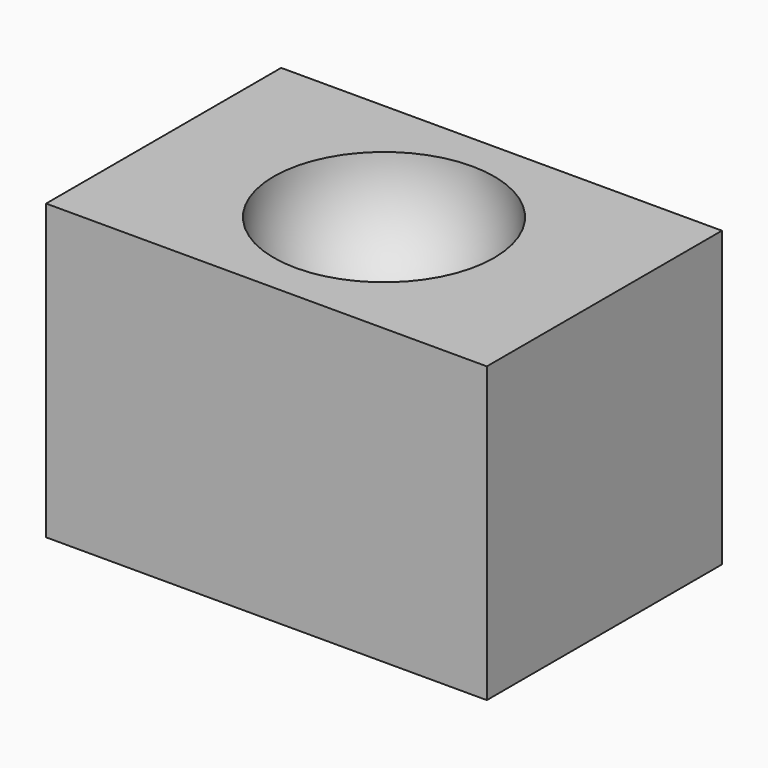
from build123d import *

# Parameters (mm, degrees)
F0_W     = 38.1
F0_H     = 25.4
F1_DEPTH = 25.4


with BuildPart() as f1:
    # F0 (on Top) → F1 (new body)
    with BuildSketch(Plane.XY):
        Rectangle(F0_W, F0_H)
    extrude(amount=F1_DEPTH)

    # F2 (on face) → F3 (revolve, cut)
    with BuildSketch(Plane.XY.offset(25.4)):
        with BuildLine():
            ThreePointArc((0, -9.525), (9.525, 0), (0, 9.525))
            Line((0, 9.525), (0, -9.525))
        make_face()
    revolve(axis=Axis((0, 0, 25.4), (0, -1, 0)), mode=Mode.SUBTRACT)


solid = f1.part
